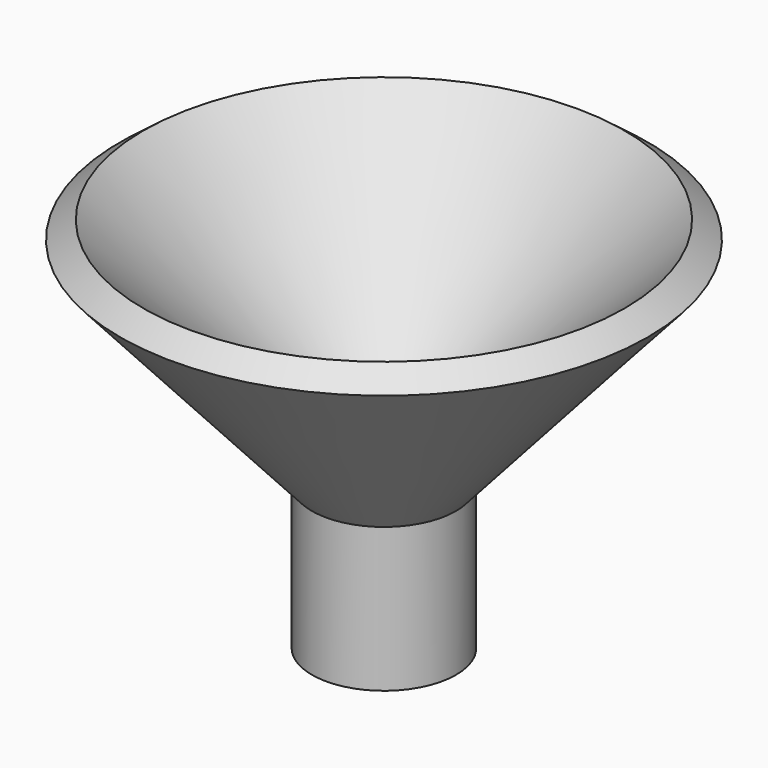
from build123d import *

# Parameters (mm, degrees)
F2_R     = 11.188361
F3_DEPTH = 76.2


with BuildPart() as f1:
    # F0 (on Front) → F1 (revolve)
    with BuildSketch(Plane.XZ):
        Polygon((0, 0), (33.784332, 37.937566), (29.684562, 41.067757), (-12.7, 0), (-12.7, -25.4), (0, -25.4), align=None)
    revolve(axis=Axis((-12.7, 0, -12.7), (0, 0, 1)))

    # F2 (on face) → F3 (cut)
    with BuildSketch(Plane(origin=(0, 0, -25.4), x_dir=(1, 0, 0), z_dir=(0, 0, -1))):
        with Locations((-12.7, 0)):
            Circle(F2_R)
    extrude(amount=-F3_DEPTH, mode=Mode.SUBTRACT)


solid = f1.part
